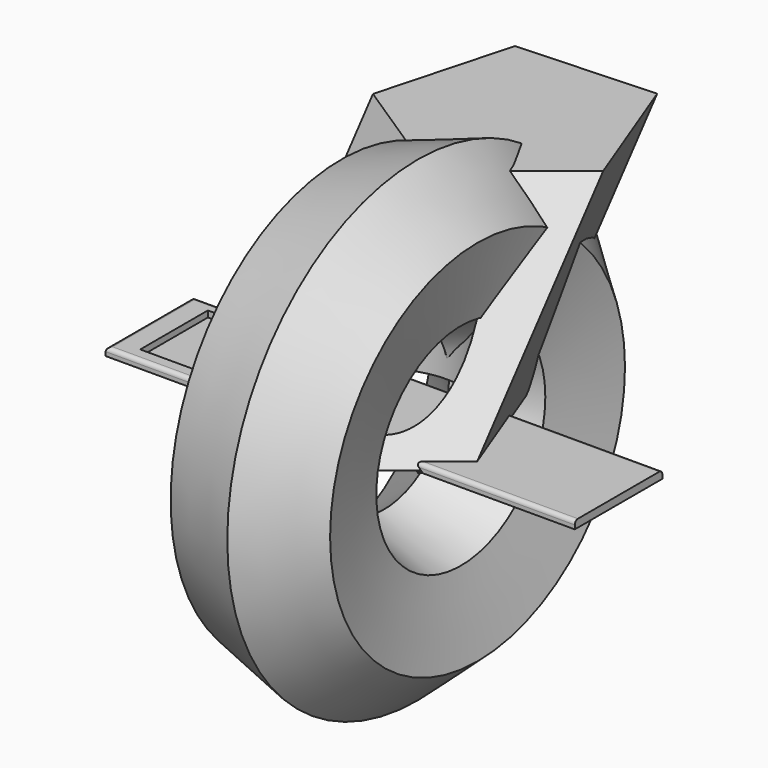
from build123d import *

# Parameters (mm, degrees)
F0_W            = 1524
F0_H            = 355.6
F1_DEPTH        = 25.4
F2_W            = 304.8
F2_H            = 274.4666785002
F3_DEPTH        = 20.32
F4_R            = 12.7
F10_D           = 508
F10_CBORE_D     = 635
F10_CBORE_DEPTH = 6.35


with BuildPart() as f1:
    # F0 (on Top) → F1 (new body)
    with BuildSketch(Plane.XY):
        Rectangle(F0_W, F0_H)
    extrude(amount=F1_DEPTH)

    # F2 (on face) → F3 (cut)
    with BuildSketch(Plane.XY.offset(25.4)):
        with Locations((-533.4, 4.6280100942)):
            Rectangle(F2_W, F2_H)
    extrude(amount=-F3_DEPTH, mode=Mode.SUBTRACT)

    # F4
    f4_edges = [f1.edges().sort_by_distance(p)[0] for p in [
        (0, -177.8, 25.4),
        (-762, 0, 25.4),
        (0, 177.8, 25.4),
    ]]
    fillet(f4_edges, radius=F4_R)


with BuildPart() as f6:
    # F5 (on Top) → F6 (revolve)
    with BuildSketch(Plane.XY):
        Polygon((249.4940546944, 343.159991284), (303.8703414009, 598.7196388048), (109.7373378189, 773.5907082165), (-138.7719524696, 692.9021301073), (-193.148239176, 437.3424825865), (0.984764406, 262.4714131748), align=None)
    revolve(axis=Axis((532.8862667084, 0, 0), (1, 0, 0)))


with BuildPart() as f9:
    # F9: sweep along a path in F8
    with BuildLine(Plane.YZ) as f9_path:
        Line((0, 0), (532.7080605955, 648.1598140979))
    # F7 (on Top) → F9 (sweep)
    with BuildSketch(Plane.XY):
        Polygon((18.4311241139, -378.6591803821), (365.821811534, -99.483081123), (207.6591892402, 317.1752549426), (-237.4813745074, 295.5081690679), (-354.4307503808, -134.5411625054), align=None)
    sweep(path=f9_path.line)

    # F10 (through all)
    with Locations(Plane(origin=(0, 0, 0), x_dir=(1, 0, 0), z_dir=(0, 0, -1))):
        with Locations((0, 0)):
            CounterBoreHole(F10_D / 2, F10_CBORE_D / 2, F10_CBORE_DEPTH)


solid = Compound([f1.part, f6.part, f9.part])
